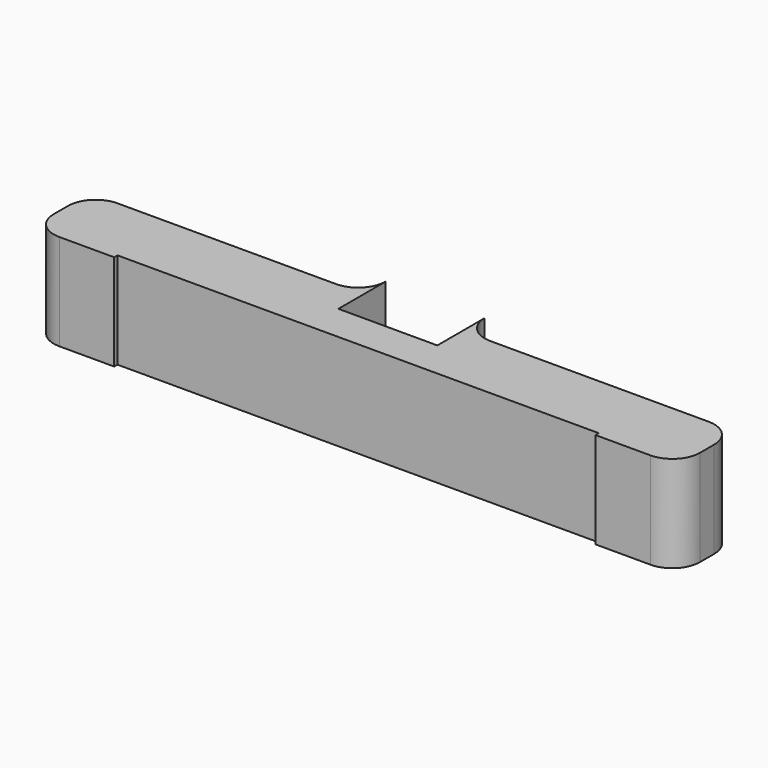
from build123d import *

# Parameters (mm, degrees)
F0_W     = 6
F0_H     = 0.3
F1_DEPTH = 7
F2_R     = 2


with BuildPart() as f1:
    # F0 (on Top) → F1 (new body)
    with BuildSketch(Plane.XY):
        with BuildLine():
            ThreePointArc((-3.6, 7), (-4.185786, 5.585786), (-5.6, 5))
            Line((-5.6, 5), (-3.6, 5))
            Line((-3.6, 5), (-3.6, 7))
        make_face()
        with BuildLine():
            Line((3.6, 7), (3.6, 5))
            Line((3.6, 5), (5.6, 5))
            ThreePointArc((5.6, 5), (4.185786, 5.585786), (3.6, 7))
        make_face()
        with Locations((-20.5, -0.15)):
            Rectangle(F0_W, F0_H)
        Polygon((-5.6, 5), (-23.5, 5), (-23.5, 0), (-17.5, 0), (17.5, 0), (23.5, 0), (23.5, 5), (5.6, 5), (3.6, 5), (3.6, 2.7), (-3.6, 2.7), (-3.6, 5), align=None)
        with Locations((20.5, -0.15)):
            Rectangle(F0_W, F0_H)
    extrude(amount=F1_DEPTH)

    # F2
    f2_edges = [f1.edges().sort_by_distance(p)[0] for p in [
        (-23.5, 5, 3.5),
        (23.5, 5, 3.5),
        (-23.5, -0.3, 3.5),
        (23.5, -0.3, 3.5),
    ]]
    fillet(f2_edges, radius=F2_R)


solid = f1.part
